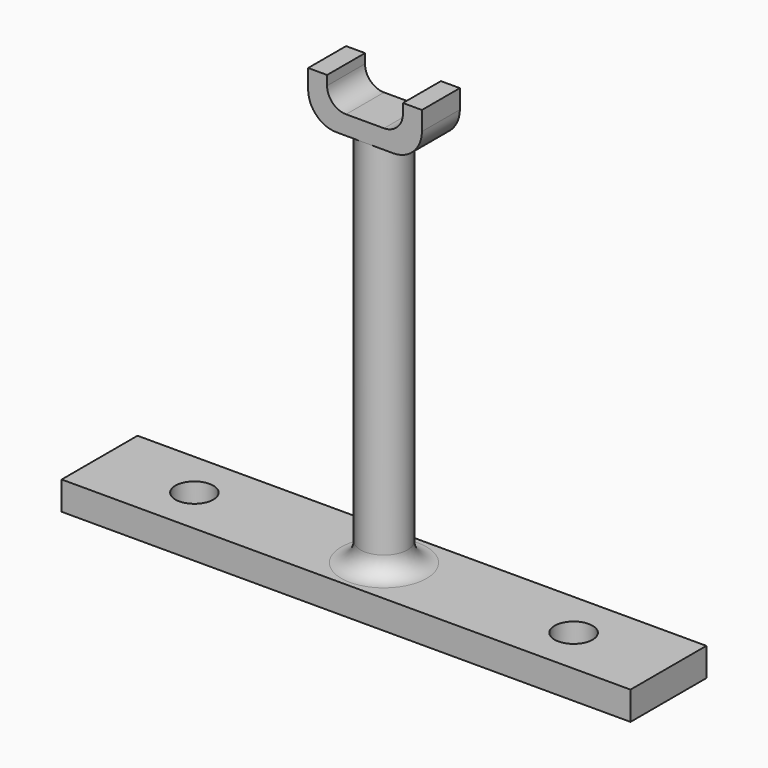
from build123d import *

# Parameters (mm, degrees)
SKETCH_W        = 60
SKETCH_H        = 10
PAD_DEPTH       = 3
SKETCH001_R     = 2
POCKET_DEPTH    = 124.80412
SKETCH002_R     = 2.5
PAD001_DEPTH    = 40
FILLET_R        = 2
SKETCH003_W     = 12
SKETCH003_H     = 5
PAD002_DEPTH    = 5
SKETCH004_W     = 8
SKETCH004_H     = 3
POCKET001_DEPTH = 7.501
FILLET001_R     = 2
FILLET002_R     = 3


with BuildPart() as part:
    # Sketch → Pad (new body)
    with BuildSketch(Plane.XY):
        Rectangle(SKETCH_W, SKETCH_H)
    extrude(amount=PAD_DEPTH)

    # Sketch001 (on Face6 of Pad) → Pocket (cut, through all)
    with BuildSketch(Plane.XY.offset(3)):
        with Locations((-20, 0)):
            Circle(SKETCH001_R)
    pocket = extrude(amount=-POCKET_DEPTH, mode=Mode.SUBTRACT)

    # Mirrored: Pocket across Sketch001 V_Axis
    add(pocket.mirror(Plane(origin=(0, 0, 3), x_dir=(0, 0, 1), z_dir=(1, 0, 0))), mode=Mode.SUBTRACT)

    # Sketch002 (on Face5 of Mirrored) → Pad001 (join)
    with BuildSketch(Plane.XY.offset(3)):
        Circle(SKETCH002_R)
    extrude(amount=PAD001_DEPTH)

    # Fillet
    fillet_edges = [part.edges().sort_by_distance(p)[0] for p in [
        (-2.5, 0, 3),
    ]]
    fillet(fillet_edges, radius=FILLET_R)

    # Sketch003 (on Face11 of Fillet) → Pad002 (join)
    with BuildSketch(Plane.XY.offset(43)):
        Rectangle(SKETCH003_W, SKETCH003_H)
    extrude(amount=PAD002_DEPTH)

    # Sketch004 (on Face13 of Pad002) → Pocket001 (cut, through all)
    with BuildSketch(Plane.XZ.offset(2.5)):
        with Locations((0, 46.5)):
            Rectangle(SKETCH004_W, SKETCH004_H)
    extrude(amount=-POCKET001_DEPTH, mode=Mode.SUBTRACT)

    # Fillet001
    fillet001_edges = [part.edges().sort_by_distance(p)[0] for p in [
        (4, 0, 45),
        (-4, 0, 45),
    ]]
    fillet(fillet001_edges, radius=FILLET001_R)

    # Fillet002
    fillet002_edges = [part.edges().sort_by_distance(p)[0] for p in [
        (-6, 0, 43),
        (6, 0, 43),
    ]]
    fillet(fillet002_edges, radius=FILLET002_R)


solid = part.part
